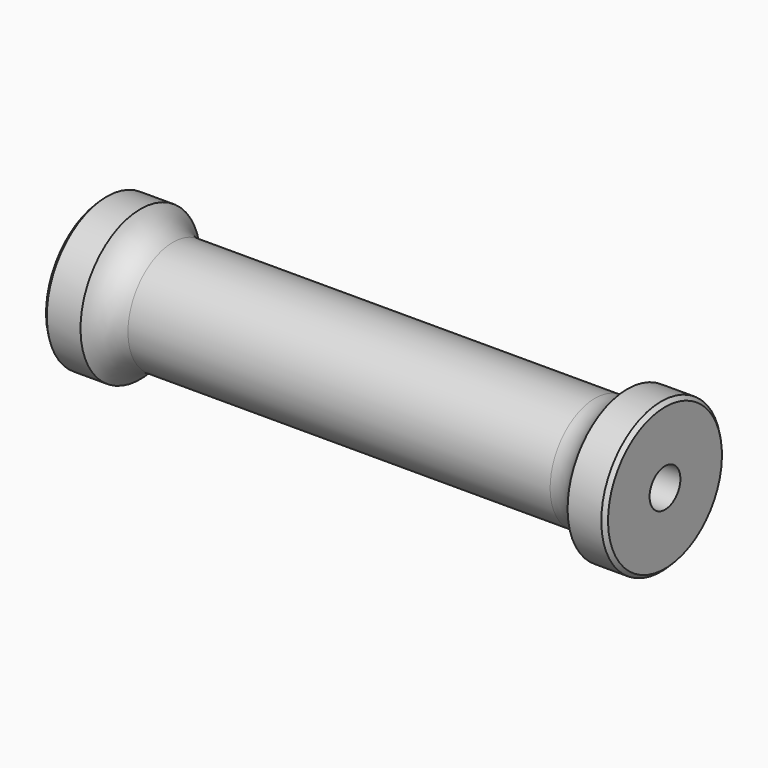
from build123d import *

# Parameters (mm, degrees)
F3_D     = 6.5278
F3_DEPTH = 28.575
F3_TIP   = 1.9611489744
F5_D     = 6.5278
F5_DEPTH = 28.575
F5_TIP   = 1.9611489744
F6_SIZE  = 0.635


with BuildPart() as f1:
    # F0 (on Front) → F1 (revolve)
    with BuildSketch(Plane.XZ):
        with BuildLine():
            Line((-95.25, 0), (0, 0))
            Line((0, 0), (0, 12.7))
            Line((0, 12.7), (-6.35, 12.7))
            ThreePointArc((-6.35, 12.7), (-8.674261314, 10.375738686), (-11.849261314, 9.525))
            Line((-11.849261314, 9.525), (-83.400738686, 9.525))
            ThreePointArc((-83.400738686, 9.525), (-86.575738686, 10.375738686), (-88.9, 12.7))
            Line((-88.9, 12.7), (-95.25, 12.7))
            Line((-95.25, 12.7), (-95.25, 0))
        make_face()
    revolve(axis=Axis((-50.5691878498, 0, 0), (-1, 0, 0)))

    # F3
    with Locations(Plane.YZ):
        with Locations((0, 0)):
            Hole(F3_D / 2, depth=F3_DEPTH)
            with Locations((0, 0, -(F3_DEPTH + F3_TIP / 2))):  # 118° drill point
                Cone(0, F3_D / 2, F3_TIP, mode=Mode.SUBTRACT)

    # F5
    with Locations(Plane(origin=(-95.25, 0, 0), x_dir=(0, -1, 0), z_dir=(-1, 0, 0))):
        with Locations((0, 0)):
            Hole(F5_D / 2, depth=F5_DEPTH)
            with Locations((0, 0, -(F5_DEPTH + F5_TIP / 2))):  # 118° drill point
                Cone(0, F5_D / 2, F5_TIP, mode=Mode.SUBTRACT)

    # F6
    f6_edges = [f1.edges().sort_by_distance(p)[0] for p in [
        (0, 0, -12.7),
        (-95.25, 0, -12.7),
    ]]
    chamfer(f6_edges, length=F6_SIZE)


solid = f1.part
